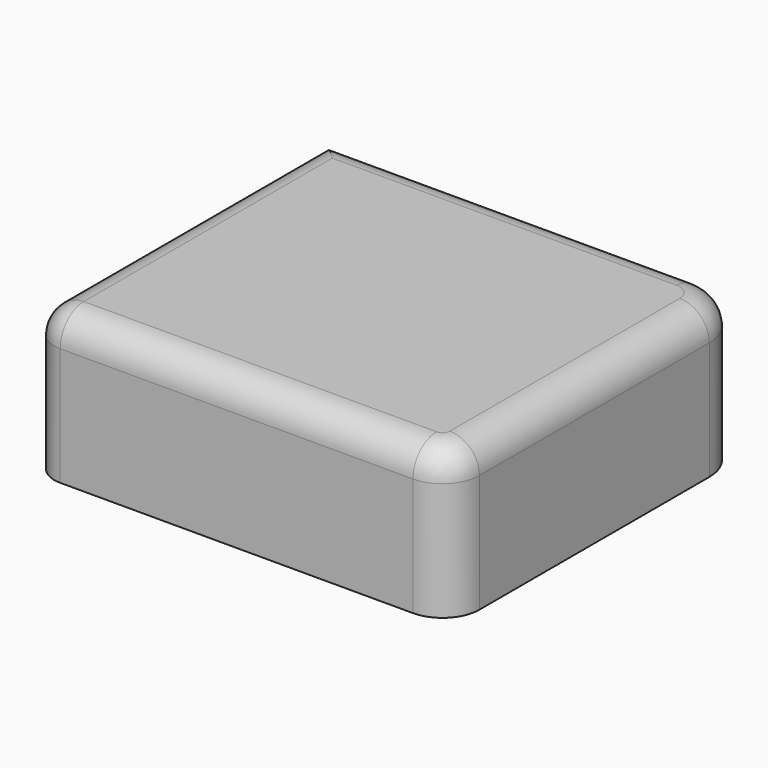
from build123d import *

# Parameters (mm, degrees)
F1_DEPTH = 25.4
F2_R     = 5.08


with BuildPart() as f1:
    # F0 (on Top) → F1 (new body)
    with BuildSketch(Plane.XY):
        with BuildLine():
            Line((0, 63.611828), (0, 0))
            Line((0, 0), (65.781634, 0))
            ThreePointArc((65.781634, 0), (70.271762, 1.859872), (72.131634, 6.35))
            Line((72.131634, 6.35), (72.131634, 55.80347))
            ThreePointArc((72.131634, 55.80347), (69.844619, 61.324813), (64.323276, 63.611828))
            Line((64.323276, 63.611828), (0, 63.611828))
        make_face()
    extrude(amount=F1_DEPTH)

    # F2
    f2_edges = [f1.edges().sort_by_distance(p)[0] for p in [
        (32.890817, 0, 25.4),
        (0, 31.805914, 25.4),
        (0, 0, 12.7),
    ]]
    fillet(f2_edges, radius=F2_R)


solid = f1.part
